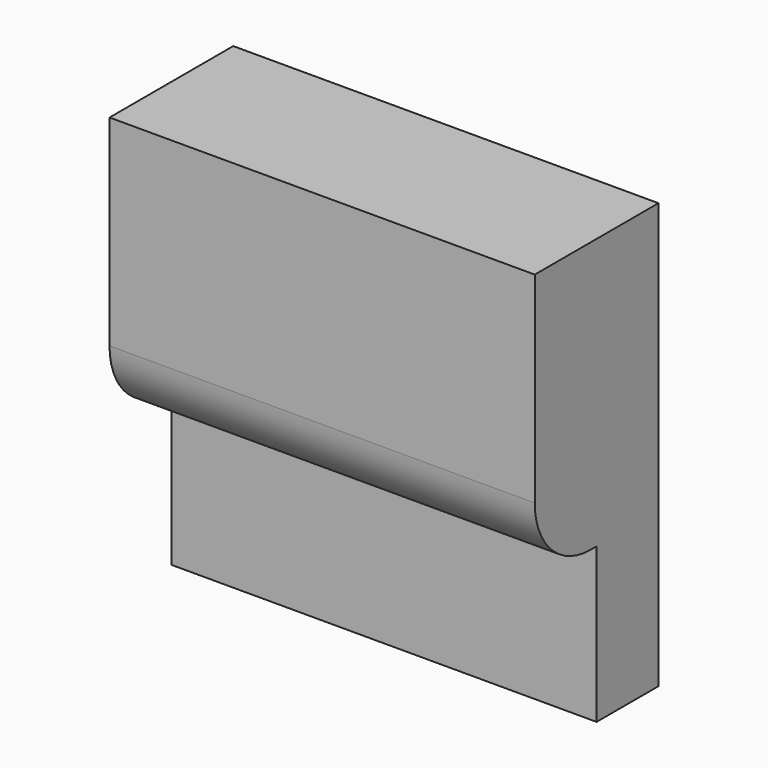
from build123d import *

# Parameters (mm, degrees)
BOX021_W     = 5.5
BOX021_H     = 1
BOX021_DEPTH = 2
BOX020_W     = 5.5
BOX020_H     = 2
BOX020_DEPTH = 5.5
FILLET004_R  = 0.9


with BuildPart() as button_1_cut002:
    # Box021 → Box021 (new body)
    with BuildSketch(Plane(origin=(5, 24, -15), x_dir=(1, 0, 0), z_dir=(0, 0, 1))):
        with Locations((2.75, 0.5)):
            Rectangle(BOX021_W, BOX021_H)
    extrude(amount=BOX021_DEPTH)


with BuildPart() as fillet004:
    # Box020 → Box020 (new body)
    with BuildSketch(Plane(origin=(5, 24, -15), x_dir=(1, 0, 0), z_dir=(0, 0, 1))):
        with Locations((2.75, 1)):
            Rectangle(BOX020_W, BOX020_H)
    extrude(amount=BOX020_DEPTH)

    # Cut002: cut Button 1 Cut002
    add(button_1_cut002.part, mode=Mode.SUBTRACT)

    # Fillet004
    fillet004_edges = [fillet004.edges().sort_by_distance(p)[0] for p in [
        (7.75, 24, -13),
    ]]
    fillet(fillet004_edges, radius=FILLET004_R)


with BuildPart() as fillet004_1:
    # Fillet004 placement: moved
    add(fillet004.part.moved(Location((-14, 0, 0))))


solid = fillet004_1.part
